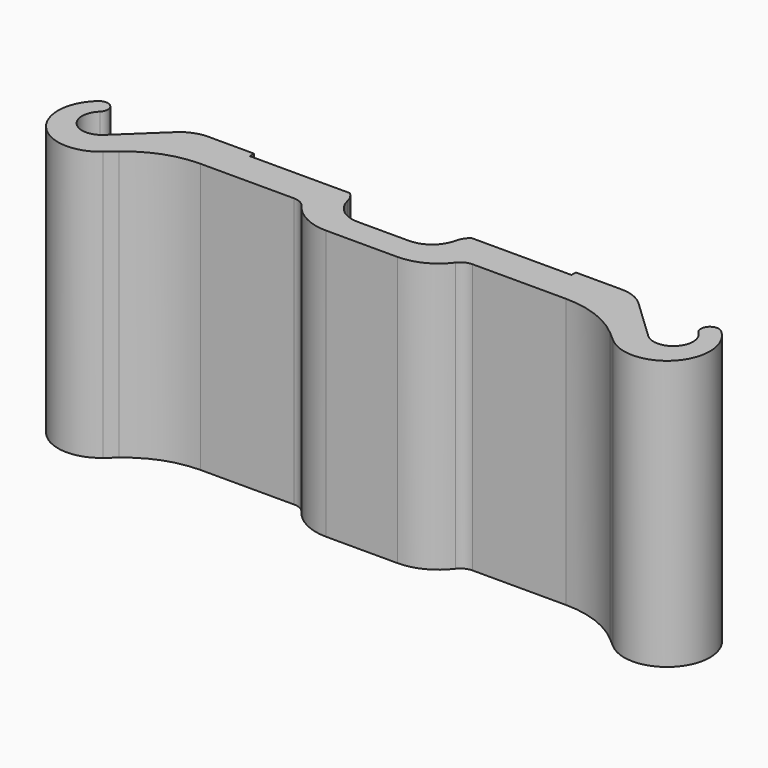
from build123d import *

# Parameters (mm, degrees)
F1_DEPTH = 15


with BuildPart() as f1:
    # F0 (on Top) → F1 (new body)
    with BuildSketch(Plane.XY):
        with BuildLine():
            Line((11.5, -2.2), (8.951817, -2.2))
            Line((8.951817, -2.2), (8.951817, -2.5))
            Line((8.951817, -2.5), (3.380814, -2.5))
            ThreePointArc((3.380814, -2.5), (3.139489, -2.790809), (3, -3.142021))
            ThreePointArc((3, -3.142021), (2.434954, -4.046773), (1.428434, -4.4))
            Line((1.428434, -4.4), (0, -4.4))
            Line((0, -4.4), (-1.428434, -4.4))
            ThreePointArc((-1.428434, -4.4), (-2.434954, -4.046773), (-3, -3.142021))
            ThreePointArc((-3, -3.142021), (-3.139489, -2.790809), (-3.380814, -2.5))
            Line((-3.380814, -2.5), (-8.951817, -2.5))
            Line((-8.951817, -2.5), (-8.951817, -2.2))
            Line((-8.951817, -2.2), (-11.5, -2.2))
            ThreePointArc((-11.5, -2.2), (-12.240729, -2.342227), (-12.876106, -2.748679))
            Line((-12.876106, -2.748679), (-15.143142, -4.898226))
            ThreePointArc((-15.143142, -4.898226), (-16.698226, -4.856858), (-16.656858, -3.301774))
            ThreePointArc((-16.656858, -3.301774), (-16.632203, -2.601088), (-17.332363, -2.564418))
            ThreePointArc((-17.332363, -2.564418), (-17.546933, -5.924986), (-14.187646, -6.158764))
            Line((-14.187646, -6.158764), (-13.658737, -5.70133))
            ThreePointArc((-13.658737, -5.70133), (-12.02897, -4.735894), (-10.164732, -4.4))
            Line((-10.164732, -4.4), (-4.96455, -4.4))
            ThreePointArc((-4.96455, -4.4), (-4.582113, -4.49077), (-4.281257, -4.743718))
            ThreePointArc((-4.281257, -4.743718), (-3.269164, -5.594645), (-1.98263, -5.9))
            Line((-1.98263, -5.9), (0, -5.9))
            Line((0, -5.9), (1.98263, -5.9))
            ThreePointArc((1.98263, -5.9), (3.269164, -5.594645), (4.281257, -4.743718))
            ThreePointArc((4.281257, -4.743718), (4.582113, -4.49077), (4.96455, -4.4))
            Line((4.96455, -4.4), (10.164732, -4.4))
            ThreePointArc((10.164732, -4.4), (12.02897, -4.735894), (13.658737, -5.70133))
            Line((13.658737, -5.70133), (14.187646, -6.158764))
            ThreePointArc((14.187646, -6.158764), (17.546933, -5.924986), (17.332363, -2.564418))
            ThreePointArc((17.332363, -2.564418), (16.632203, -2.601088), (16.656858, -3.301774))
            ThreePointArc((16.656858, -3.301774), (16.698226, -4.856858), (15.143142, -4.898226))
            Line((15.143142, -4.898226), (12.876106, -2.748679))
            ThreePointArc((12.876106, -2.748679), (12.240729, -2.342227), (11.5, -2.2))
        make_face()
    extrude(amount=F1_DEPTH)


solid = f1.part
